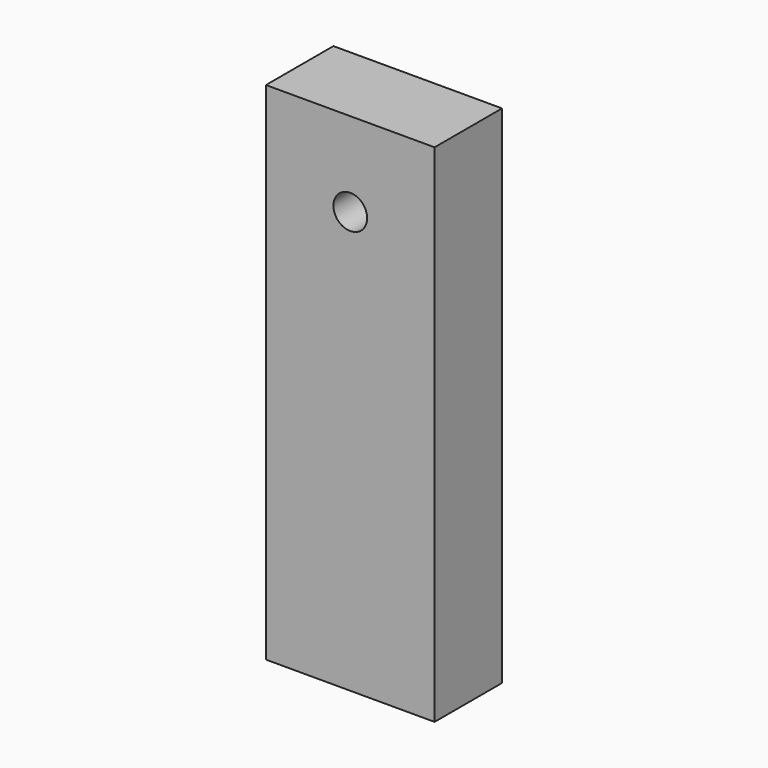
from build123d import *

# Parameters (mm, degrees)
F0_W     = 10
F0_H     = 30
F1_DEPTH = 5
F2_R     = 1
F3_DEPTH = 10


with BuildPart() as f1:
    # F0 (on Front) → F1 (new body)
    with BuildSketch(Plane.XZ):
        Rectangle(F0_W, F0_H)
    extrude(amount=F1_DEPTH)

    # F2 (on Front) → F3 (cut)
    with BuildSketch(Plane.XZ):
        with Locations((0, 10)):
            Circle(F2_R)
    extrude(amount=F3_DEPTH, mode=Mode.SUBTRACT)


solid = f1.part
